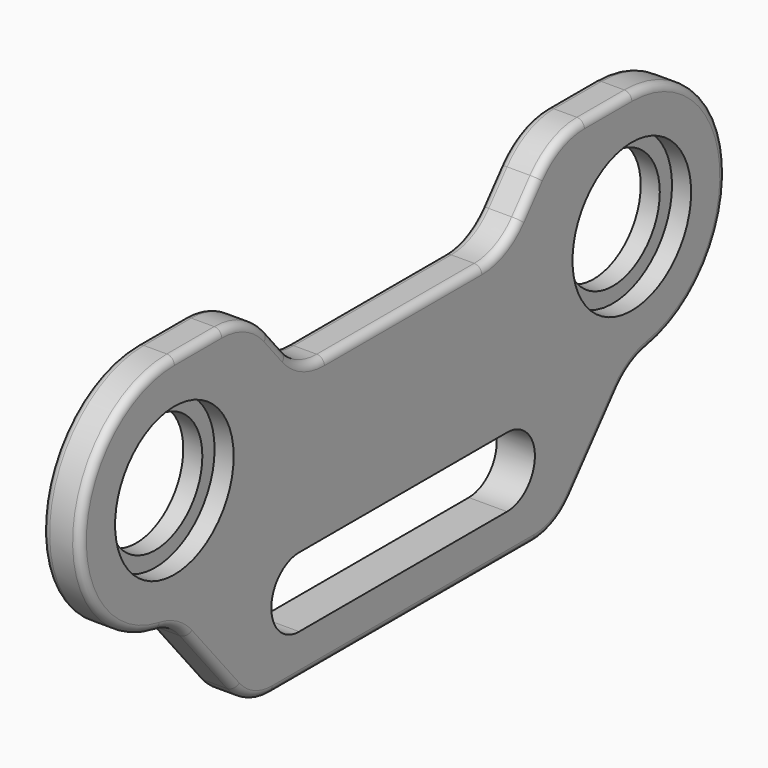
from build123d import *

# Parameters (mm, degrees)
F0_R     = 4.8895
F1_DEPTH = 1.5875
F2_R     = 5.08
F3_R     = 5.08
F4_R     = 6.35
F5_R     = 5.08
F7_DEPTH = 12.7
F8_R     = 6.1595
F9_DEPTH = 1.5875
F10_R    = 0.635


with BuildPart() as f1:
    # F0 (on Right) → F1 (new body, symmetric)
    with BuildSketch(Plane.YZ):
        with BuildLine():
            Line((15.980706, -19.05), (23.759998, -9.779))
            ThreePointArc((23.759998, -9.779), (33.538998, 0), (23.759998, 9.779))
            Line((23.759998, 9.779), (15.875, 9.779))
            Line((15.875, 9.779), (10.546717, 3.429))
            Line((10.546717, 3.429), (-10.546717, 3.429))
            Line((-10.546717, 3.429), (-15.875, 9.779))
            Line((-15.875, 9.779), (-23.759998, 9.779))
            ThreePointArc((-23.759998, 9.779), (-33.538998, 0), (-23.759998, -9.779))
            Line((-23.759998, -9.779), (-15.980706, -19.05))
            Line((-15.980706, -19.05), (15.980706, -19.05))
        make_face()
        with Locations((-23.759998, 0)):
            Circle(F0_R, mode=Mode.SUBTRACT)
        with Locations((23.759998, 0)):
            Circle(F0_R, mode=Mode.SUBTRACT)
    extrude(amount=F1_DEPTH, both=True)

    # F2
    f2_edges = [f1.edges().sort_by_distance(p)[0] for p in [
        (0, -15.980706, -19.05),
        (0, 15.980706, -19.05),
    ]]
    fillet(f2_edges, radius=F2_R)

    # F3
    f3_edges = [f1.edges().sort_by_distance(p)[0] for p in [
        (0, -10.546717, 3.429),
        (0, 10.546717, 3.429),
    ]]
    fillet(f3_edges, radius=F3_R)

    # F4
    f4_edges = [f1.edges().sort_by_distance(p)[0] for p in [
        (0, -15.875, 9.779),
        (0, 15.875, 9.779),
    ]]
    fillet(f4_edges, radius=F4_R)

    # F5
    f5_edges = [f1.edges().sort_by_distance(p)[0] for p in [
        (0, -23.759998, -9.779),
        (0, 23.759998, -9.779),
    ]]
    fillet(f5_edges, radius=F5_R)

    # F6 (on Right) → F7 (cut, symmetric)
    with BuildSketch(Plane.YZ):
        with BuildLine():
            Line((10.795, -9.803238), (-10.795, -9.803238))
            ThreePointArc((-10.795, -9.803238), (-13.691762, -12.7), (-10.795, -15.596762))
            Line((-10.795, -15.596762), (10.795, -15.596762))
            ThreePointArc((10.795, -15.596762), (13.691762, -12.7), (10.795, -9.803238))
        make_face()
    extrude(amount=F7_DEPTH, both=True, mode=Mode.SUBTRACT)

    # F8 (on face) → F9 (cut)
    with BuildSketch(Plane.YZ.offset(1.5875)):
        with Locations((-23.759998, 0)):
            Circle(F8_R)
        with Locations((23.759998, 0)):
            Circle(F8_R)
    extrude(amount=-F9_DEPTH, mode=Mode.SUBTRACT)

    # F10
    f10_edges = [f1.edges().sort_by_distance(p)[0] for p in [
        (1.5875, -19.963165, -14.303889),
        (-1.5875, -33.502533, 0.84372),
    ]]
    fillet(f10_edges, radius=F10_R)


solid = f1.part
